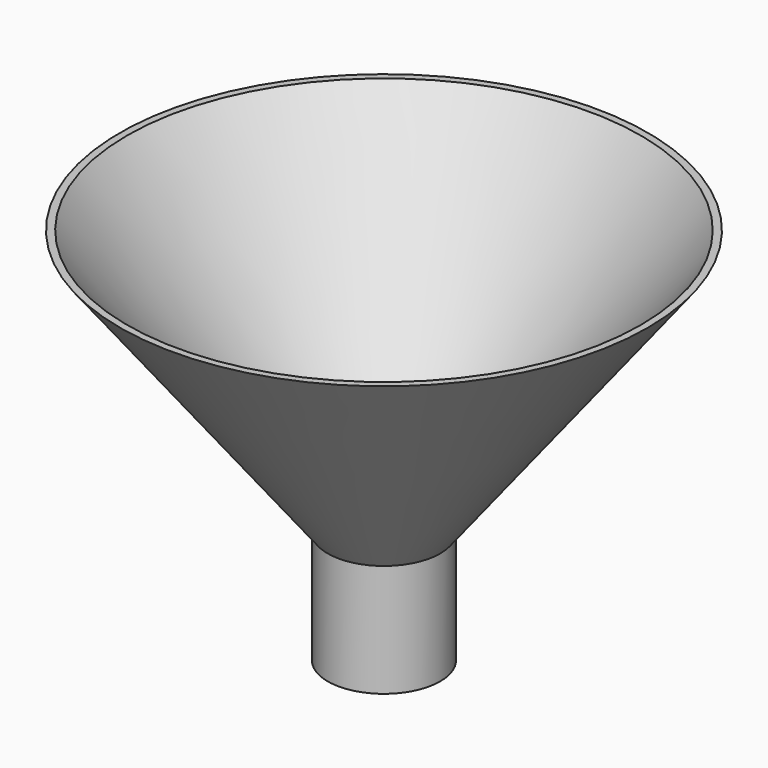
from build123d import *

# Parameters (mm, degrees)
F2_R     = 10.571716
F3_DEPTH = 22.86
F4_R     = 10.571716
F5_DEPTH = 25.4


with BuildPart() as f1:
    # F0 (on Front) → F1 (revolve)
    with BuildSketch(Plane.XZ):
        Polygon((8.974869, -30.552745), (21.674869, -30.552745), (21.674869, -5.152745), (68.532457, 54.937241), (66.91015, 54.937241), (24.070622, 0), (8.974869, 0), align=None)
    revolve(axis=Axis((8.974869, 0, -15.276372), (0, 0, 1)))

    # F2 (on face) → F3 (cut)
    with BuildSketch(Plane(origin=(0, 0, -30.552745), x_dir=(1, 0, 0), z_dir=(0, 0, -1))):
        with Locations((8.974869, 0)):
            Circle(F2_R)
    extrude(amount=-F3_DEPTH, mode=Mode.SUBTRACT)

    # F4 (on face) → F5 (cut)
    with BuildSketch(Plane(origin=(0, 0, -7.692745), x_dir=(1, 0, 0), z_dir=(0, 0, -1))):
        with Locations((8.974869, 0)):
            Circle(F4_R)
    extrude(amount=-F5_DEPTH, mode=Mode.SUBTRACT)


solid = f1.part
